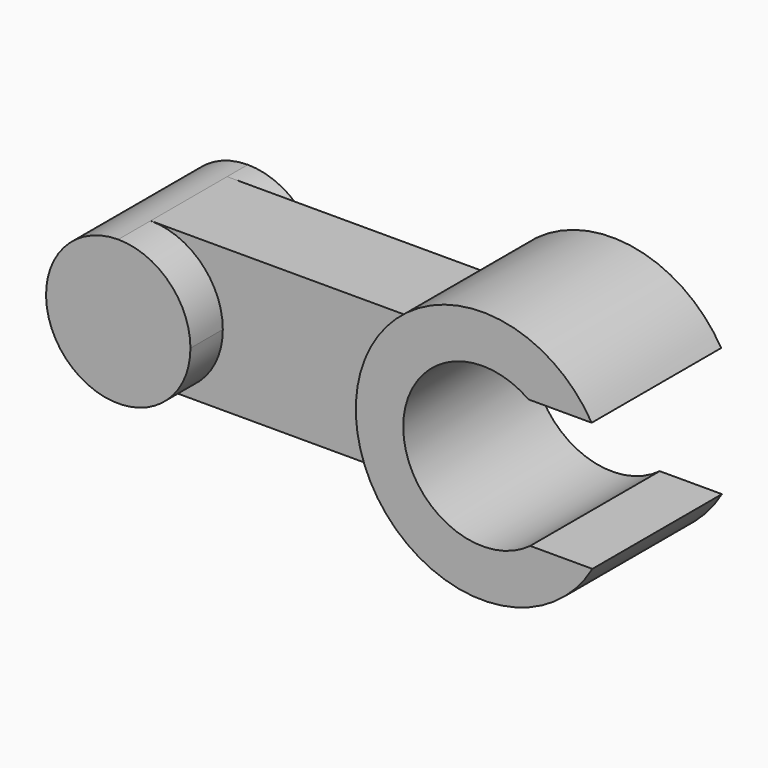
from build123d import *

# Parameters (mm, degrees)
F1_DEPTH = 1.57
F2_DEPTH = 3.14
F4_DEPTH = 0.5
F5_DEPTH = 3.14
F6_DEPTH = 0.785


with BuildPart() as f1:
    # F0 (on Front) → F1 (new body)
    with BuildSketch(Plane.XZ):
        with BuildLine():
            ThreePointArc((0, 1.4), (0.9899494937, 0.9899494937), (1.4, 0))
            ThreePointArc((1.4, 0), (1.0722010752, -0.9002137826), (0.2423073508, -1.3788716937))
            Line((0.2423073508, -1.3788716937), (5.03, -1.3788716937))
            ThreePointArc((5.03, -1.3788716937), (4.6072316639, 0), (5.03, 1.3788716937))
            Line((5.03, 1.3788716937), (5.03, 1.4))
            Line((5.03, 1.4), (0, 1.4))
        make_face()
    extrude(amount=F1_DEPTH)

    # F0 (on Front) → F2 (join)
    with BuildSketch(Plane.XZ):
        with BuildLine():
            ThreePointArc((5.03, 1.3788716937), (4.6072316639, 0), (5.03, -1.3788716937))
            ThreePointArc((5.03, -1.3788716937), (7.1531686939, -2.4584984903), (9.1957705087, -1.2332568208))
            Line((9.1957705087, -1.2332568208), (7.9895535242, -1.2332568208))
            ThreePointArc((7.9895535242, -1.2332568208), (5.5273609556, -0.0199549945), (7.9572859214, 1.2567431792))
            Line((7.9572859214, 1.2567431792), (9.1819885249, 1.2567431792))
            ThreePointArc((9.1819885249, 1.2567431792), (7.139559961, 2.458936481), (5.03, 1.3788716937))
        make_face()
    extrude(amount=F2_DEPTH)

    # F3 (on face) → F4 (cut)
    with BuildSketch(Plane(origin=(0, 0, 0), x_dir=(-1, 0, 0), z_dir=(0, 1, 0))):
        with BuildLine():
            ThreePointArc((-5.03, 1.4), (-4.8076942376, 0.0105641531), (-5.03, -1.3788716937))
            Line((-5.03, -1.3788716937), (-0.2423073508, -1.3788716937))
            ThreePointArc((-0.2423073508, -1.3788716937), (-1.3947079213, 0.1216133808), (0, 1.4))
            Line((0, 1.4), (-5.03, 1.4))
        make_face()
    extrude(amount=-F4_DEPTH, mode=Mode.SUBTRACT)

    # F0 (on Front) → F5 (join)
    with BuildSketch(Plane.XZ):
        with BuildLine():
            ThreePointArc((0.2423073508, -1.3788716937), (1.0722010752, -0.9002137826), (1.4, 0))
            ThreePointArc((1.4, 0), (0.9899494937, 0.9899494937), (0, 1.4))
            ThreePointArc((0, 1.4), (-1.3947079213, -0.1216133808), (0.2423073508, -1.3788716937))
        make_face()
    extrude(amount=F5_DEPTH)

    # F6 (add): a face of the model
    f6_faces = [f1.faces().sort_by_distance(p)[0] for p in [
        (2.9154968292, -1.57, 0.0141355812),
    ]]
    extrude(f6_faces, amount=F6_DEPTH)


solid = f1.part
